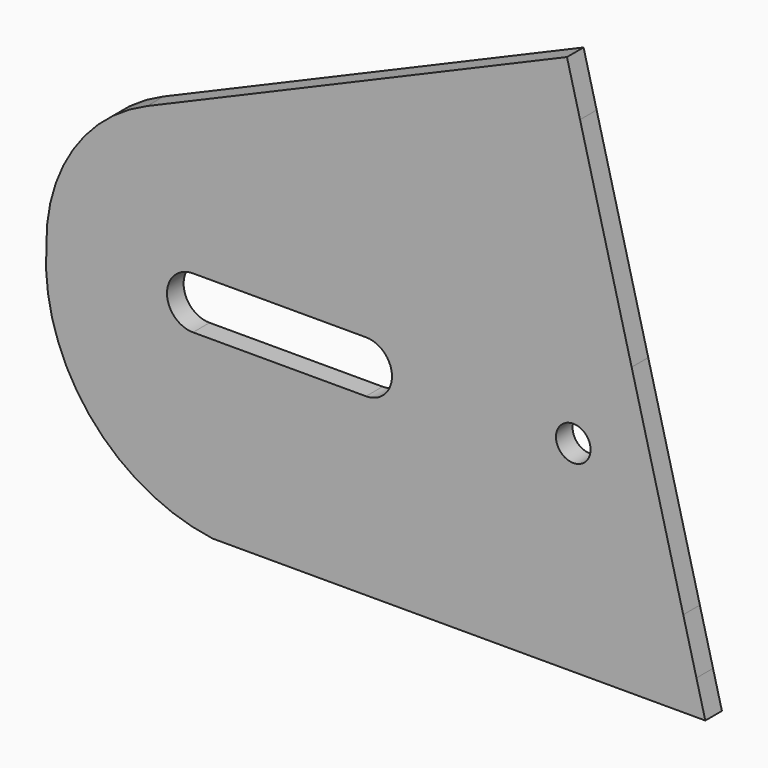
from build123d import *

# Parameters (mm, degrees)
F0_R     = 5
F1_DEPTH = 6


with BuildPart() as f1:
    # F0 (on Front) → F1 (new body)
    with BuildSketch(Plane.XZ):
        with BuildLine():
            Line((-1703.138001, -347.536195), (-1718.050877, -289.419019))
            Line((-1718.050877, -289.419019), (-1721.823269, -274.717582))
            Line((-1721.823269, -274.717582), (-1843.144738, -326.636415))
            ThreePointArc((-1843.144738, -326.636415), (-1864.583372, -344.726475), (-1872.25071, -371.709381))
            ThreePointArc((-1872.25071, -371.709381), (-1859.881766, -410.596493), (-1824.259994, -430.503467))
            Line((-1824.259994, -430.503467), (-1785.068774, -430.503467))
            Line((-1785.068774, -430.503467), (-1681.848585, -430.503467))
            Line((-1681.848585, -430.503467), (-1684.414587, -420.503467))
            Line((-1684.414587, -420.503467), (-1688.225124, -405.653371))
            Line((-1688.225124, -405.653371), (-1703.138001, -347.536195))
        make_face()
        with BuildLine():
            ThreePointArc((-1829.898524, -379.89099), (-1837.398524, -372.39099), (-1829.898524, -364.89099))
            Line((-1829.898524, -364.89099), (-1779.898524, -364.89099))
            ThreePointArc((-1779.898524, -364.89099), (-1772.398524, -372.39099), (-1779.898524, -379.89099))
            Line((-1779.898524, -379.89099), (-1829.898524, -379.89099))
        make_face(mode=Mode.SUBTRACT)
        with Locations((-1719.99996, -372.39099)):
            Circle(F0_R, mode=Mode.SUBTRACT)
    extrude(amount=-F1_DEPTH)


solid = f1.part
